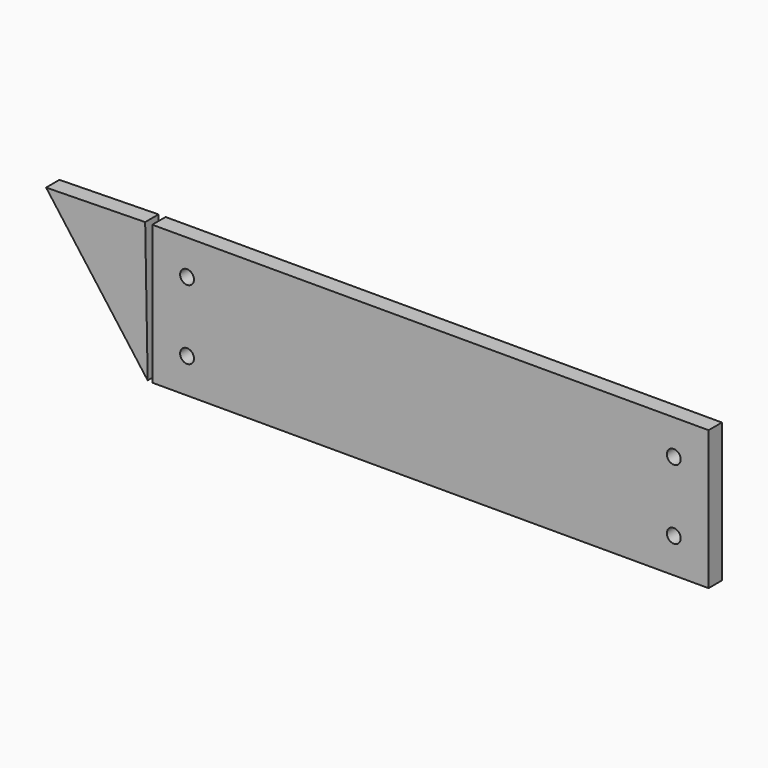
from build123d import *

# Parameters (mm, degrees)
F0_W     = 400
F0_H     = 100
F0_R     = 5
F1_DEPTH = 12
F3_DEPTH = 12


with BuildPart() as f1:
    # F0 (on Front) → F1 (new body)
    with BuildSketch(Plane.XZ):
        with Locations((32.699327, -12.188424)):
            Rectangle(F0_W, F0_H)
        with Locations((-142.300673, -37.188424)):
            Circle(F0_R, mode=Mode.SUBTRACT)
        with Locations((207.699327, -37.188424)):
            Circle(F0_R, mode=Mode.SUBTRACT)
        with Locations((-142.300673, 12.811576)):
            Circle(F0_R, mode=Mode.SUBTRACT)
        with Locations((207.699327, 12.811576)):
            Circle(F0_R, mode=Mode.SUBTRACT)
    extrude(amount=F1_DEPTH)


with BuildPart() as f3:
    # F2 (on Front) → F3 (new body)
    with BuildSketch(Plane.XZ):
        Polygon((-170.588925, -61.84721), (-172.395945, 37.796307), (-243.643641, 36.505584), align=None)
    extrude(amount=F3_DEPTH)


solid = Compound([f1.part, f3.part])
